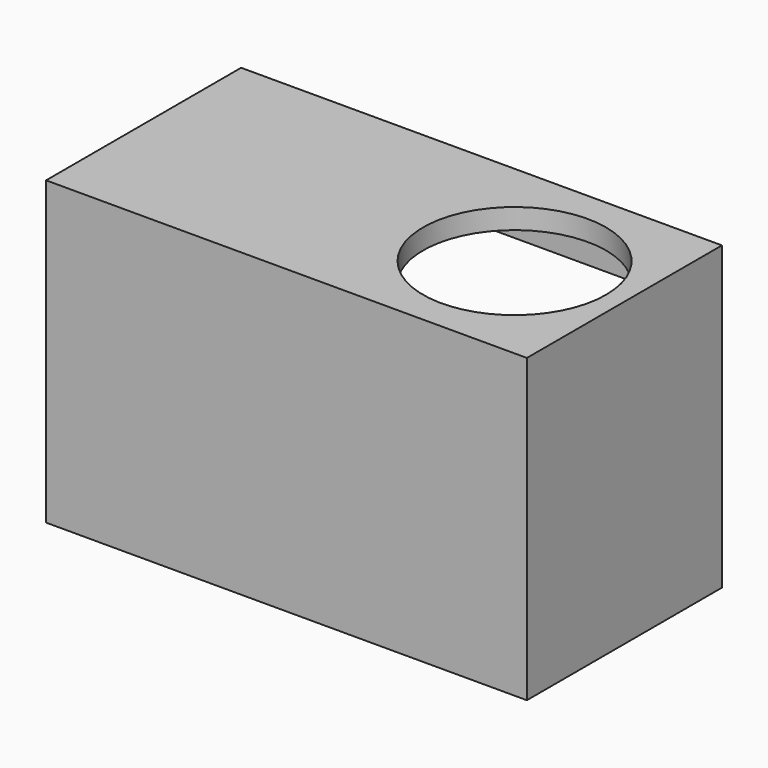
from build123d import *

# Parameters (mm, degrees)
F0_W      = 901.7
F0_H      = 527.05
F1_DEPTH  = 457.2
F2_T      = -19.05
F3_W      = 901.7
F3_H      = 457.2
F4_DEPTH  = 38.1
F5_R      = 101.6
F6_DEPTH  = 19.05
F7_R      = 171.45
F8_DEPTH  = 38.1
F9_W      = 749.3
F9_H      = 412.75
F10_DEPTH = 9.525
F11_W     = 698.5
F11_H     = 361.95
F12_DEPTH = 9.525


with BuildPart() as f1:
    # F0 (on Front) → F1 (new body)
    with BuildSketch(Plane.XZ):
        Rectangle(F0_W, F0_H)
    extrude(amount=F1_DEPTH)

    # F2
    f2_openings = [f1.faces().sort_by_distance(p)[0] for p in [
        (0, -228.6, 263.525),
    ]]
    offset(amount=F2_T, openings=f2_openings)

    # F3 (on face) → F4 (join)
    with BuildSketch(Plane.XY.offset(263.525)):
        with Locations((0, -228.6)):
            Rectangle(F3_W, F3_H)
    extrude(amount=F4_DEPTH)

    # F5 (on face) → F6 (cut, through all)
    with BuildSketch(Plane(origin=(-450.85, 0, 0), x_dir=(0, -1, 0), z_dir=(-1, 0, 0))):
        with Locations((228.6, -102.11508)):
            Circle(F5_R)
    extrude(amount=-F6_DEPTH, mode=Mode.SUBTRACT)

    # F7 (on face) → F8 (cut, through all)
    with BuildSketch(Plane.XY.offset(301.625)):
        with Locations((244.839686, -228.6)):
            Circle(F7_R)
    extrude(amount=-F8_DEPTH, mode=Mode.SUBTRACT)

    # F9 (on face) → F10 (cut)
    with BuildSketch(Plane(origin=(0, 0, 0), x_dir=(-1, 0, 0), z_dir=(0, 1, 0))):
        with Locations((0, 19.05)):
            Rectangle(F9_W, F9_H)
    extrude(amount=-F10_DEPTH, mode=Mode.SUBTRACT)

    # F11 (on face) → F12 (cut, through all)
    with BuildSketch(Plane(origin=(0, -9.525, 0), x_dir=(-1, 0, 0), z_dir=(0, 1, 0))):
        with Locations((0, 19.05)):
            Rectangle(F11_W, F11_H)
    extrude(amount=-F12_DEPTH, mode=Mode.SUBTRACT)


solid = f1.part
